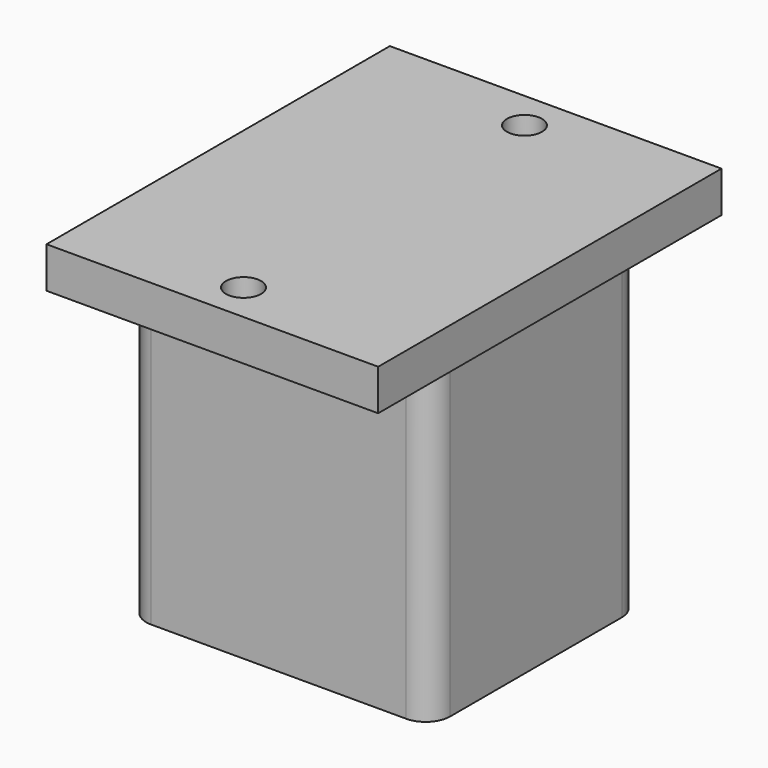
from build123d import *

# Parameters (mm, degrees)
F1_DEPTH = 32.3
F2_W     = 34
F2_H     = 43.9928
F3_DEPTH = 4.2
F4_R     = 1.8
F5_DEPTH = 25.4


with BuildPart() as f1:
    # F0 (on Top) → F1 (new body)
    with BuildSketch(Plane.XY):
        with BuildLine():
            Line((-13.075, -13.5), (13.075, -13.5))
            ThreePointArc((13.075, -13.5), (14.842766953, -12.767766953), (15.575, -11))
            Line((15.575, -11), (15.575, 11))
            ThreePointArc((15.575, 11), (14.842766953, 12.767766953), (13.075, 13.5))
            Line((13.075, 13.5), (-13.075, 13.5))
            ThreePointArc((-13.075, 13.5), (-14.842766953, 12.767766953), (-15.575, 11))
            Line((-15.575, 11), (-15.575, -11))
            ThreePointArc((-15.575, -11), (-14.842766953, -12.767766953), (-13.075, -13.5))
        make_face()
    extrude(amount=F1_DEPTH)

    # F2 (on face) → F3 (join)
    with BuildSketch(Plane.XY.offset(32.3)):
        Rectangle(F2_W, F2_H)
        with BuildLine():
            Line((-15.575, -11), (-15.575, 11))
            ThreePointArc((-15.575, 11), (-14.842766953, 12.767766953), (-13.075, 13.5))
            Line((-13.075, 13.5), (13.075, 13.5))
            ThreePointArc((13.075, 13.5), (14.842766953, 12.767766953), (15.575, 11))
            Line((15.575, 11), (15.575, -11))
            ThreePointArc((15.575, -11), (14.842766953, -12.767766953), (13.075, -13.5))
            Line((13.075, -13.5), (-13.075, -13.5))
            ThreePointArc((-13.075, -13.5), (-14.842766953, -12.767766953), (-15.575, -11))
        make_face(mode=Mode.SUBTRACT)
        with BuildLine():
            ThreePointArc((-13.075, 13.5), (-14.842766953, 12.767766953), (-15.575, 11))
            Line((-15.575, 11), (-15.575, -11))
            ThreePointArc((-15.575, -11), (-14.842766953, -12.767766953), (-13.075, -13.5))
            Line((-13.075, -13.5), (13.075, -13.5))
            ThreePointArc((13.075, -13.5), (14.842766953, -12.767766953), (15.575, -11))
            Line((15.575, -11), (15.575, 11))
            ThreePointArc((15.575, 11), (14.842766953, 12.767766953), (13.075, 13.5))
            Line((13.075, 13.5), (-13.075, 13.5))
        make_face()
    extrude(amount=F3_DEPTH)

    # F4 (on face) → F5 (cut)
    with BuildSketch(Plane.XY.offset(36.5)):
        with Locations((0, 18.0036)):
            Circle(F4_R)
        with Locations((0, -17.9964)):
            Circle(F4_R)
    extrude(amount=-F5_DEPTH, mode=Mode.SUBTRACT)


solid = f1.part
